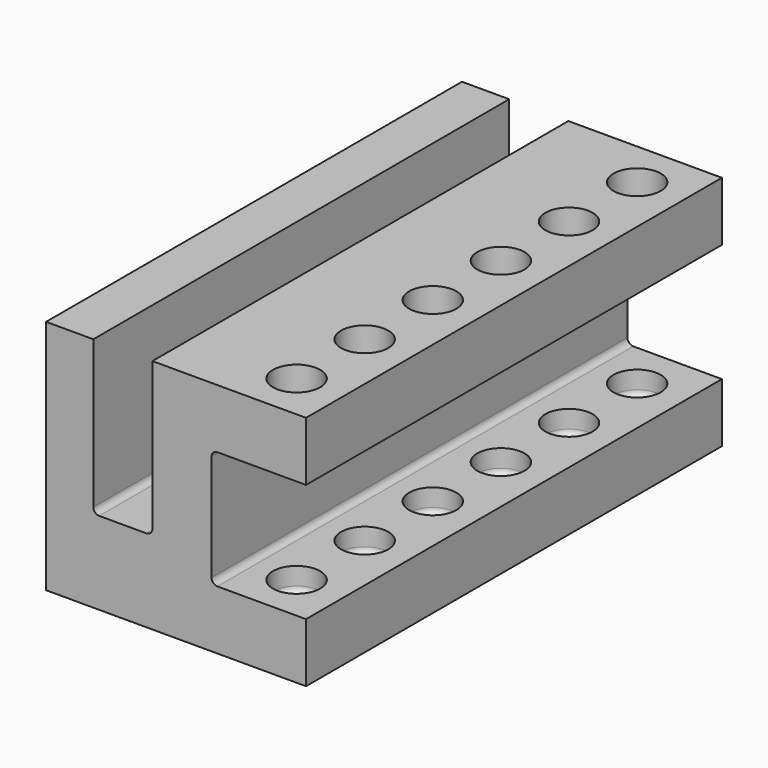
from build123d import *

# Parameters (mm, degrees)
F1_DEPTH = 69.85
F2_R     = 6.35
F3_DEPTH = 53.975
F4_R     = 1.5875
F5_R     = 1.5875


with BuildPart() as f1:
    # F0 (on Front) → F1 (new body, symmetric)
    with BuildSketch(Plane.XZ):
        Polygon((-23.8125, 31.75), (-36.5125, 31.75), (-36.5125, -31.75), (33.3375, -31.75), (33.3375, -15.875), (7.9375, -15.875), (7.9375, 15.875), (33.3375, 15.875), (33.3375, 31.75), (-7.9375, 31.75), (-7.9375, -9.525), (-23.8125, -9.525), align=None)
    extrude(amount=F1_DEPTH, both=True)

    # F2 (on face) → F3 (cut)
    with BuildSketch(Plane.XY.offset(31.75)):
        with Locations((20.6375, -57.15)):
            Circle(F2_R)
        with Locations((20.652245, -34.290005)):
            Circle(F2_R)
        with Locations((20.666989, -11.43001)):
            Circle(F2_R)
        with Locations((20.681734, 11.429986)):
            Circle(F2_R)
        with Locations((20.696478, 34.289981)):
            Circle(F2_R)
        with Locations((20.711223, 57.149976)):
            Circle(F2_R)
    extrude(amount=-F3_DEPTH, mode=Mode.SUBTRACT)

    # F4
    f4_edges = [f1.edges().sort_by_distance(p)[0] for p in [
        (7.9375, 0, -15.875),
        (7.9375, 0, 15.875),
        (-23.8125, 0, -9.525),
        (-7.9375, 0, -9.525),
    ]]
    fillet(f4_edges, radius=F4_R)

    # F5
    f5_edges = [f1.edges().sort_by_distance(p)[0] for p in [
        (14.361223, 57.149976, -22.225),
        (14.346478, 34.289981, -22.225),
        (14.331734, 11.429986, -22.225),
        (14.316989, -11.43001, -22.225),
        (14.302245, -34.290005, -22.225),
        (14.2875, -57.15, -22.225),
    ]]
    fillet(f5_edges, radius=F5_R)


solid = f1.part
